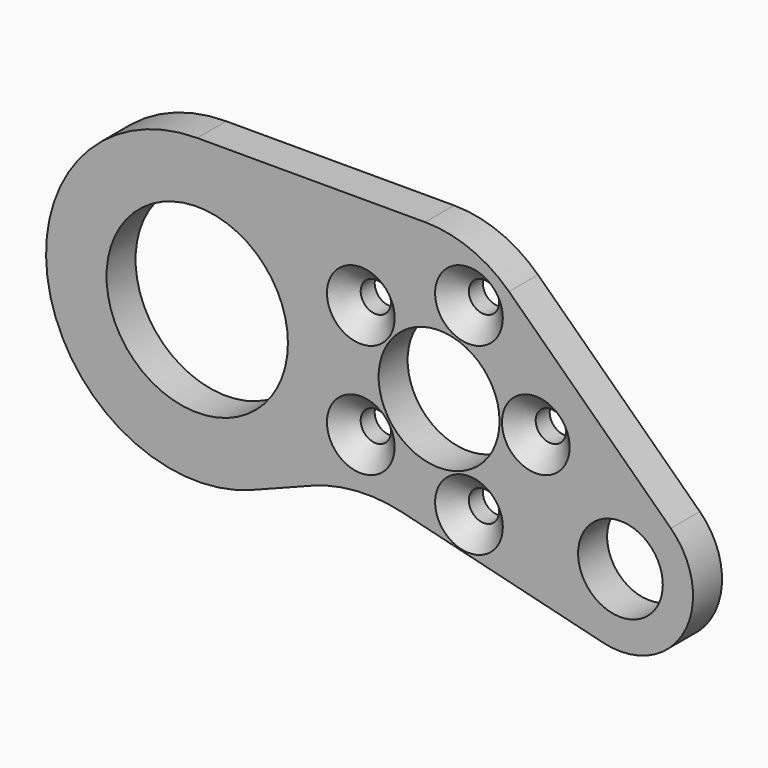
from build123d import *

# Parameters (mm, degrees)
F0_R     = 2.5
F0_R_2   = 7
F0_R_3   = 15
F0_R_4   = 10
F1_DEPTH = 6
F2_SIZE  = 3.1


with BuildPart() as f1:
    # F0 (on Front) → F1 (new body)
    with BuildSketch(Plane.XZ):
        with BuildLine():
            Line((37.689998, 25), (0, 25))
            ThreePointArc((0, 25), (-24.573155, -4.600004), (9.042928, -23.307197))
            Line((9.042928, -23.307197), (18.961279, -19.45899))
            ThreePointArc((18.961279, -19.45899), (26.3962, -17.817954), (33.98027, -18.49096))
            Line((33.98027, -18.49096), (67.13149, -26.652109))
            ThreePointArc((67.13149, -26.652109), (80.508551, -20.793993), (78.322499, -6.355001))
            Line((78.322499, -6.355001), (51.56083, 19.408331))
            ThreePointArc((51.56083, 19.408331), (45.167744, 23.549483), (37.689998, 25))
        make_face()
        with Locations((27.055728, -9.404564)):
            Circle(F0_R, mode=Mode.SUBTRACT)
        with Locations((44.944272, -15.216904)):
            Circle(F0_R, mode=Mode.SUBTRACT)
        with Locations((70, -15)):
            Circle(F0_R_2, mode=Mode.SUBTRACT)
        Circle(F0_R_3, mode=Mode.SUBTRACT)
        with Locations((27.055728, 9.404564)):
            Circle(F0_R, mode=Mode.SUBTRACT)
        with Locations((40, 0)):
            Circle(F0_R_4, mode=Mode.SUBTRACT)
        with Locations((56, 0)):
            Circle(F0_R, mode=Mode.SUBTRACT)
        with Locations((44.944272, 15.216904)):
            Circle(F0_R, mode=Mode.SUBTRACT)
    extrude(amount=F1_DEPTH)

    # F2
    f2_edges = [f1.edges().sort_by_distance(p)[0] for p in [
        (24.555728, -6, -9.404564),
        (24.555728, -6, 9.404564),
        (42.444272, -6, 15.216904),
        (53.5, -6, 0),
        (42.444272, -6, -15.216904),
    ]]
    chamfer(f2_edges, length=F2_SIZE)


solid = f1.part
